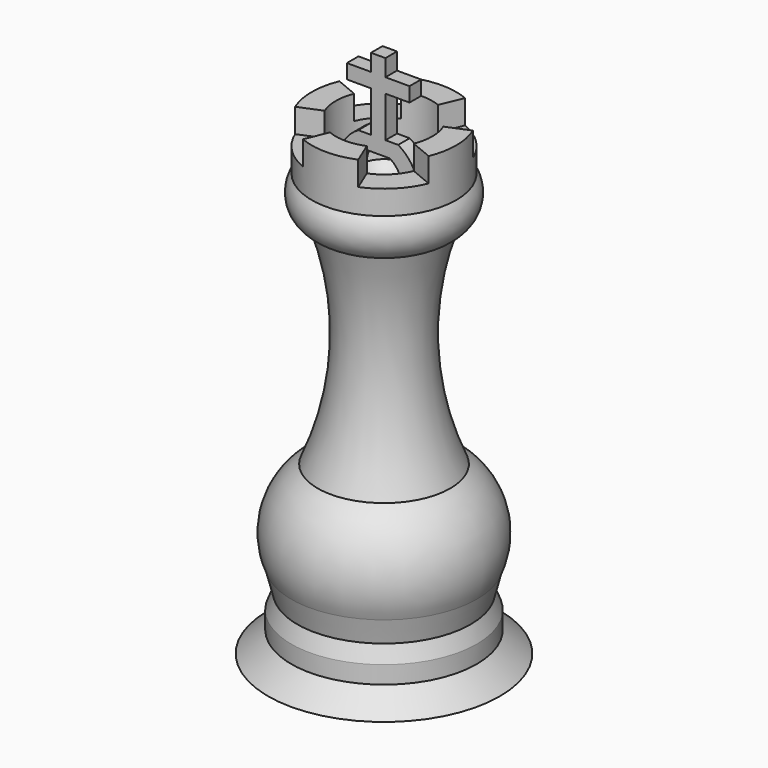
from build123d import *

# Parameters (mm, degrees)
F3_DEPTH  = 3.175
F5_ANGLE  = 60
F6_ANGLE  = 60
F8_DEPTH  = 1.905
F9_W      = 1.905
F9_H      = 1.905
F10_DEPTH = 9.525
F12_W     = 1.905
F12_H     = 1.905
F13_DEPTH = 3.175
F11_W     = 1.905
F11_H     = 1.905
F14_DEPTH = 3.175


with BuildPart() as f1:
    # F0 (on Front) → F1 (revolve)
    with BuildSketch(Plane.XZ):
        with BuildLine():
            ThreePointArc((1.9104100836, -12.0137352582), (-1.2420239962, 1.8571007321), (0.9128650892, 15.917484252))
            ThreePointArc((0.9128650892, 15.917484252), (3.2021639922, 18.3722598359), (2.6969102816, 21.6906225832))
            Line((2.6969102816, 21.6906225832), (2.6969102816, 28.0406225832))
            Line((2.6969102816, 28.0406225832), (-0.4780897184, 28.0406225832))
            Line((-0.4780897184, 28.0406225832), (-0.4780897184, 21.6906225832))
            Line((-0.4780897184, 21.6906225832), (-3.6530897184, 21.6906225832))
            ThreePointArc((-3.6530897184, 21.6906225832), (-5.0136552596, 20.4406816828), (-6.8280897184, 20.0923737139))
            Line((-6.8280897184, 20.0923737139), (-6.8280897184, -12.0137352582))
            Line((-6.8280897184, -12.0137352582), (1.9104100836, -12.0137352582))
        make_face()
        with BuildLine():
            ThreePointArc((5.3982534365, -23.751484805), (5.8080925324, -17.2426253255), (1.9104100836, -12.0137352582))
            Line((1.9104100836, -12.0137352582), (-6.8280897184, -12.0137352582))
            Line((-6.8280897184, -12.0137352582), (-6.8280897184, -34.0055577618))
            Line((-6.8280897184, -34.0055577618), (8.4436773242, -34.0055577618))
            Line((8.4436773242, -34.0055577618), (5.3982534365, -31.2619249963))
            Line((5.3982534365, -31.2619249963), (5.3982534365, -28.9416048837))
            Line((5.3982534365, -28.9416048837), (4.6006464318, -26.911324465))
            Line((4.6006464318, -26.911324465), (5.3982534365, -23.751484805))
        make_face()
    revolve(axis=Axis((-6.8280897184, 0, 4.8384436625), (0, 0, -1)))

    # F2 (on face) → F3 (cut)
    with BuildSketch(Plane.XY.offset(28.0406225832)):
        with BuildLine():
            ThreePointArc((-11.3182177789, 4.4901280605), (-10.3559606981, 5.2798320381), (-9.2581295139, 5.8666350314))
            Line((-9.2581295139, 5.8666350314), (-10.4731494117, 8.7999525472))
            ThreePointArc((-10.4731494117, 8.7999525472), (-12.1198961879, 7.9197480572), (-13.5632818092, 6.7351920908))
            Line((-13.5632818092, 6.7351920908), (-11.3182177789, 4.4901280605))
        make_face()
        with BuildLine():
            Line((-15.6280422656, 3.6450596933), (-12.6947247499, 2.4300397955))
            ThreePointArc((-12.6947247499, 2.4300397955), (-12.1079217565, 3.5278709797), (-11.3182177789, 4.4901280605))
            Line((-11.3182177789, 4.4901280605), (-13.5632818092, 6.7351920908))
            ThreePointArc((-13.5632818092, 6.7351920908), (-14.7478377756, 5.2918064695), (-15.6280422656, 3.6450596933))
        make_face()
        with BuildLine():
            Line((-2.3379616579, 4.4901280605), (-0.0928976276, 6.7351920908))
            ThreePointArc((-0.0928976276, 6.7351920908), (-1.5362832489, 7.9197480572), (-3.1830300251, 8.7999525472))
            Line((-3.1830300251, 8.7999525472), (-4.3980499229, 5.8666350314))
            ThreePointArc((-4.3980499229, 5.8666350314), (-3.3002187387, 5.2798320381), (-2.3379616579, 4.4901280605))
        make_face()
        with BuildLine():
            Line((-0.961454687, 2.4300397955), (1.9718628288, 3.6450596933))
            ThreePointArc((1.9718628288, 3.6450596933), (1.0916583388, 5.2918064695), (-0.0928976276, 6.7351920908))
            Line((-0.0928976276, 6.7351920908), (-2.3379616579, 4.4901280605))
            ThreePointArc((-2.3379616579, 4.4901280605), (-1.5482576803, 3.5278709797), (-0.961454687, 2.4300397955))
        make_face()
        with BuildLine():
            ThreePointArc((-0.0928976276, -6.7351920908), (1.0916583388, -5.2918064695), (1.9718628288, -3.6450596933))
            Line((1.9718628288, -3.6450596933), (-0.961454687, -2.4300397955))
            ThreePointArc((-0.961454687, -2.4300397955), (-1.5482576803, -3.5278709797), (-2.3379616579, -4.4901280605))
            Line((-2.3379616579, -4.4901280605), (-0.0928976276, -6.7351920908))
        make_face()
        with BuildLine():
            ThreePointArc((-3.1830300251, -8.7999525472), (-1.5362832489, -7.9197480572), (-0.0928976276, -6.7351920908))
            Line((-0.0928976276, -6.7351920908), (-2.3379616579, -4.4901280605))
            ThreePointArc((-2.3379616579, -4.4901280605), (-3.3002187387, -5.2798320381), (-4.3980499229, -5.8666350314))
            Line((-4.3980499229, -5.8666350314), (-3.1830300251, -8.7999525472))
        make_face()
        with BuildLine():
            Line((-10.4731494117, -8.7999525472), (-9.2581295139, -5.8666350314))
            ThreePointArc((-9.2581295139, -5.8666350314), (-10.3559606981, -5.2798320381), (-11.3182177789, -4.4901280605))
            Line((-11.3182177789, -4.4901280605), (-13.5632818092, -6.7351920908))
            ThreePointArc((-13.5632818092, -6.7351920908), (-12.1198961879, -7.9197480572), (-10.4731494117, -8.7999525472))
        make_face()
        with BuildLine():
            Line((-13.5632818092, -6.7351920908), (-11.3182177789, -4.4901280605))
            ThreePointArc((-11.3182177789, -4.4901280605), (-12.1079217565, -3.5278709797), (-12.6947247499, -2.4300397955))
            Line((-12.6947247499, -2.4300397955), (-15.6280422656, -3.6450596933))
            ThreePointArc((-15.6280422656, -3.6450596933), (-14.7478377756, -5.2918064695), (-13.5632818092, -6.7351920908))
        make_face()
    extrude(amount=-F3_DEPTH, mode=Mode.SUBTRACT)

    # F4 (on face) → F5 (revolve)
    with BuildSketch(Plane.XY.offset(21.6906225832)):
        with BuildLine():
            Line((-12.0793466829, 0.9525), (-12.0793466829, 0))
            Line((-12.0793466829, 0), (-12.0793466829, -0.9525))
            Line((-12.0793466829, -0.9525), (-9.8568466829, -0.9525))
            ThreePointArc((-9.8568466829, -0.9525), (-10.0030897184, 0), (-9.8568466829, 0.9525))
            Line((-9.8568466829, 0.9525), (-12.0793466829, 0.9525))
        make_face()
    revolve(axis=Axis((-6.8280897184, 0.8868722944, 21.6906225832), (0, 1, 0)), revolution_arc=F5_ANGLE)

    # F4 (on face) → F6 (revolve)
    with BuildSketch(Plane.XY.offset(21.6906225832)):
        with BuildLine():
            Line((-1.5768327539, 0.9525), (-3.7993327539, 0.9525))
            ThreePointArc((-3.7993327539, 0.9525), (-3.6898634389, 0.4818306952), (-3.6530897184, 0))
            ThreePointArc((-3.6530897184, 0), (-3.6898634389, -0.4818306952), (-3.7993327539, -0.9525))
            Line((-3.7993327539, -0.9525), (-1.5768327539, -0.9525))
            Line((-1.5768327539, -0.9525), (-1.5768327539, 0))
            Line((-1.5768327539, 0), (-1.5768327539, 0.9525))
        make_face()
    revolve(axis=Axis((-6.8280897184, 0.8868722944, 21.6906225832), (0, -1, 0)), revolution_arc=F6_ANGLE)

    # F7 (on face) → F8 (join)
    with BuildSketch(Plane.XZ.offset(0.9525)):
        Polygon((-4.2024612362, 26.2383445163), (-9.4537182007, 26.2383445163), (-8.3424682007, 24.3136030564), (-5.3137112362, 24.3136030564), align=None)
    extrude(amount=-F8_DEPTH)

    # F9 (on face) → F10 (join)
    with BuildSketch(Plane.XY.offset(26.2383445163)):
        with Locations((-6.8280897184, 0)):
            Rectangle(F9_W, F9_H)
    extrude(amount=F10_DEPTH)

    # F12 (on face) → F13 (join)
    with BuildSketch(Plane(origin=(-7.7805897184, 0, 0), x_dir=(0, -1, 0), z_dir=(-1, 0, 0))):
        with Locations((0, 32.5883445163)):
            Rectangle(F12_W, F12_H)
    extrude(amount=F13_DEPTH)

    # F11 (on face) → F14 (join)
    with BuildSketch(Plane.YZ.offset(-5.8755897184)):
        with Locations((0, 32.5883445163)):
            Rectangle(F11_W, F11_H)
    extrude(amount=F14_DEPTH)


solid = f1.part
